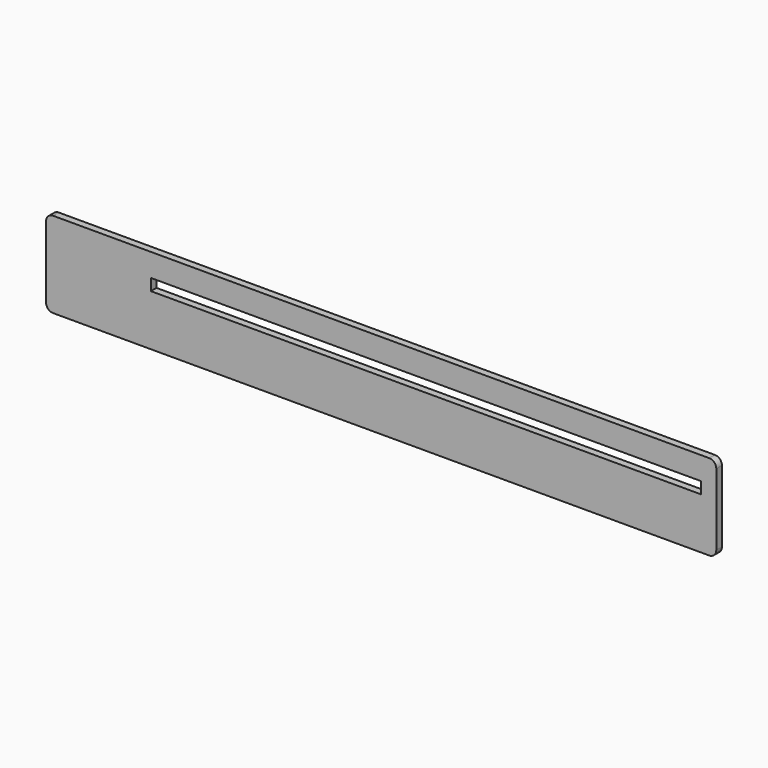
from build123d import *

# Parameters (mm, degrees)
F0_W     = 156
F0_H     = 3.3
F1_DEPTH = 2


with BuildPart() as f1:
    # F0 (on Front) → F1 (new body)
    with BuildSketch(Plane.XZ):
        with BuildLine():
            ThreePointArc((0, 2), (0.585786, 0.585786), (2, 0))
            Line((2, 0), (188, 0))
            ThreePointArc((188, 0), (189.414214, 0.585786), (190, 2))
            Line((190, 2), (190, 22.3))
            ThreePointArc((190, 22.3), (189.414214, 23.714214), (188, 24.3))
            Line((188, 24.3), (2, 24.3))
            ThreePointArc((2, 24.3), (0.585786, 23.714214), (0, 22.3))
            Line((0, 22.3), (0, 2))
        make_face()
        with Locations((107.7, 16.15)):
            Rectangle(F0_W, F0_H, mode=Mode.SUBTRACT)
    extrude(amount=F1_DEPTH)


solid = f1.part
